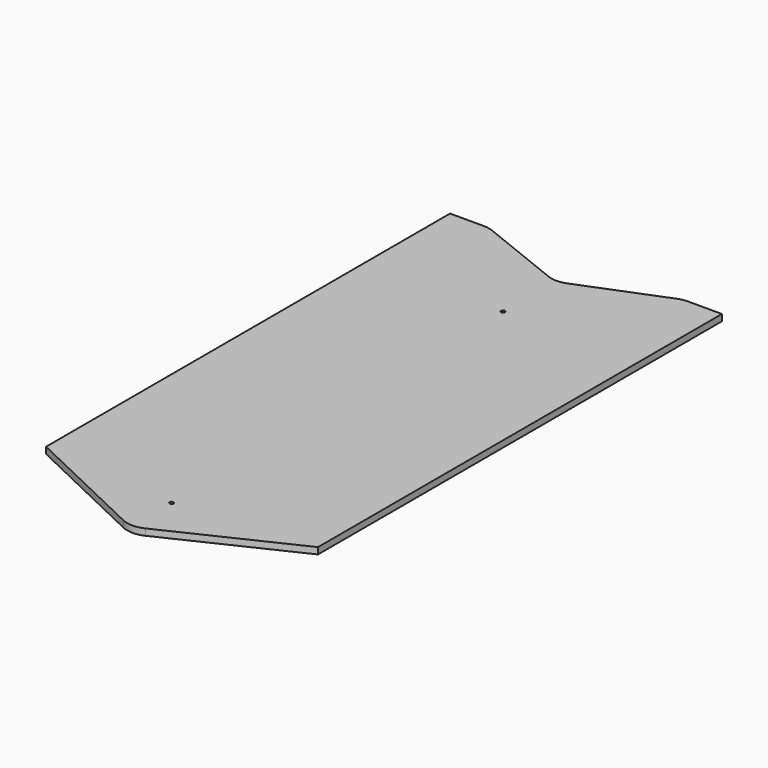
from build123d import *

# Parameters (mm, degrees)
F1_DEPTH = 5
F3_R     = 20
F4_D     = 3


with BuildPart() as f1:
    # F0 (on Top) → F1 (new body)
    with BuildSketch(Plane.XY):
        Polygon((-105, 50), (0, 0), (0, 410), (-75, 440), (-105, 440), align=None)
    extrude(amount=F1_DEPTH)

    # F2: F1 across plane


with BuildPart() as f1_1:
    add(f1.part)
    add(f1.part.mirror(Plane.YZ))

    # F3
    f3_edges = [f1_1.edges().sort_by_distance(p)[0] for p in [
        (0, 0, 2.5),
        (0, 410, 2.5),
        (75, 440, 2.5),
        (-75, 440, 2.5),
    ]]
    fillet(f3_edges, radius=F3_R)

    # F4 (through all)
    with Locations(Plane(origin=(0, 0, 0), x_dir=(1, 0, 0), z_dir=(0, 0, -1))):
        with Locations((0, -360), (0, -40)):
            Hole(F4_D / 2)


solid = f1_1.part
